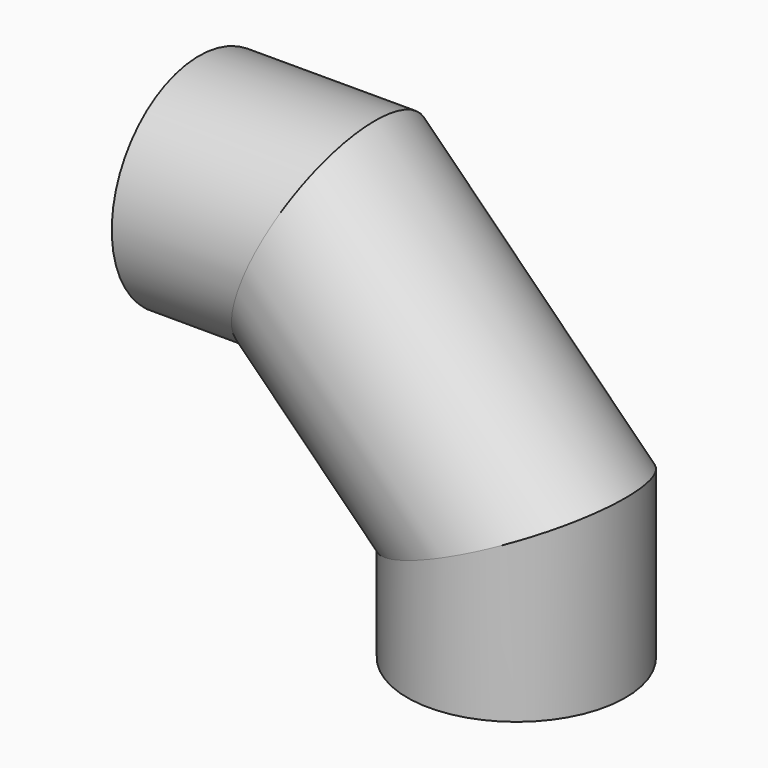
from build123d import *

# Parameters (mm, degrees)
F2_R   = 410.9
F2_R_2 = 400


with BuildPart() as f3:
    # F3: sweep along a path in F0
    with BuildLine(Plane.XZ) as f3_path:
        Line((5, 1200), (497.0562748477, 1200))
        Line((497.0562748477, 1200), (1200, 497.0562748477))
        Line((1200, 497.0562748477), (1200, 5))
    # F2 (on line) → F3 (sweep)
    with BuildSketch(Plane.YZ.offset(5)):
        with Locations((0, 1200)):
            Circle(F2_R)
        with Locations((0, 1200)):
            Circle(F2_R_2, mode=Mode.SUBTRACT)
    sweep(path=f3_path.line, transition=Transition.RIGHT)


solid = f3.part
